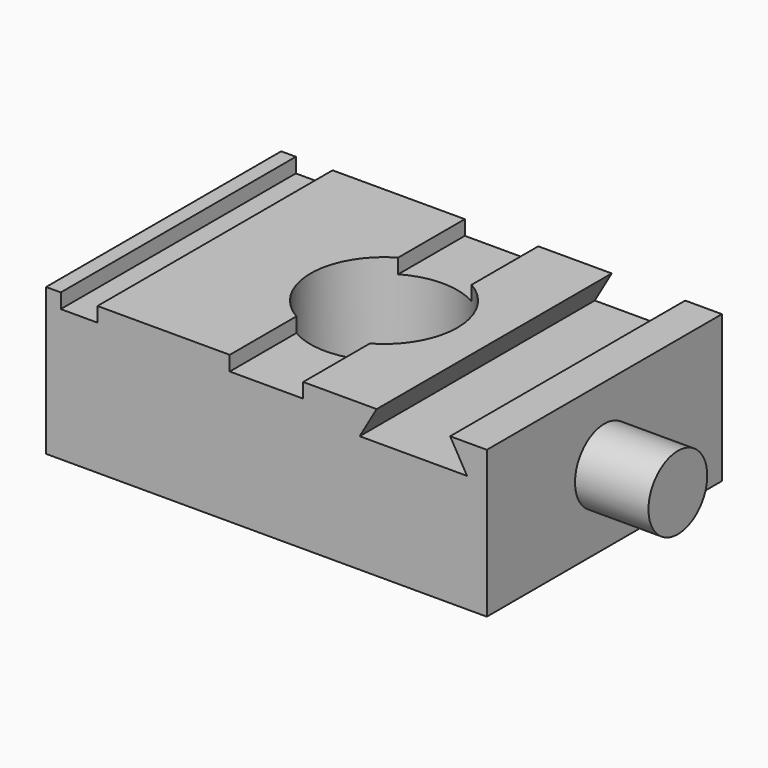
from build123d import *

# Parameters (mm, degrees)
F0_W     = 76.2
F0_H     = 50.8
F0_R     = 12.7
F1_DEPTH = 25.4
F2_W     = 6.35
F2_H     = 50.8
F3_DEPTH = 2.54
F5_DEPTH = 50.801
F6_R     = 6.35
F7_DEPTH = 12.7


with BuildPart() as f1:
    # F0 (on Top) → F1 (new body)
    with BuildSketch(Plane.XY):
        Rectangle(F0_W, F0_H)
        Circle(F0_R, mode=Mode.SUBTRACT)
    extrude(amount=F1_DEPTH)

    # F2 (on face) → F3 (cut)
    with BuildSketch(Plane.XY.offset(25.4)):
        with Locations((-32.385, 0)):
            Rectangle(F2_W, F2_H)
        with BuildLine():
            Line((6.35, 25.4), (-6.35, 25.4))
            Line((-6.35, 25.4), (-6.35, 10.9985226281))
            ThreePointArc((-6.35, 10.9985226281), (0, 12.7), (6.35, 10.9985226281))
            Line((6.35, 10.9985226281), (6.35, 25.4))
        make_face()
        with BuildLine():
            Line((-6.35, -10.9985226281), (-6.35, -25.4))
            Line((-6.35, -25.4), (6.35, -25.4))
            Line((6.35, -25.4), (6.35, -10.9985226281))
            ThreePointArc((6.35, -10.9985226281), (0, -12.7), (-6.35, -10.9985226281))
        make_face()
    extrude(amount=-F3_DEPTH, mode=Mode.SUBTRACT)

    # F4 (on face) → F5 (cut, through all)
    with BuildSketch(Plane.XZ.offset(25.4)):
        Polygon((31.75, 25.4), (19.05, 25.4), (16.1170606325, 20.32), (34.6829393675, 20.32), align=None)
    extrude(amount=-F5_DEPTH, mode=Mode.SUBTRACT)


with BuildPart() as f7:
    # F6 (on face) → F7 (new body)
    with BuildSketch(Plane.YZ.offset(38.1)):
        with Locations((0, 12.7)):
            Circle(F6_R)
    extrude(amount=F7_DEPTH)


solid = Compound([f1.part, f7.part])
